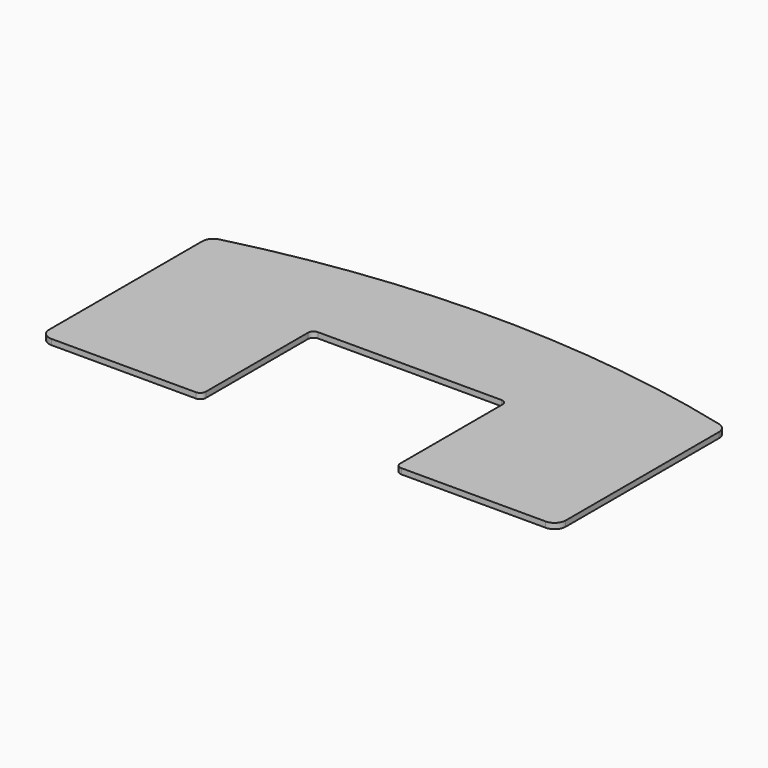
from build123d import *

# Parameters (mm, degrees)
F1_DEPTH = 25.4


with BuildPart() as f1:
    # F0 (on Top) → F1 (new body)
    with BuildSketch(Plane.XY):
        with BuildLine():
            Line((469.9, -482.6), (1130.3, -482.6))
            ThreePointArc((1130.3, -482.6), (1166.221024, -467.721024), (1181.1, -431.8))
            Line((1181.1, -431.8), (1181.1, 443.23931))
            ThreePointArc((1181.1, 443.23931), (1170.390212, 474.438908), (1142.776578, 492.483345))
            ThreePointArc((1142.776578, 492.483345), (0, 635), (-1142.776578, 492.483345))
            ThreePointArc((-1142.776578, 492.483345), (-1170.390212, 474.438908), (-1181.1, 443.23931))
            Line((-1181.1, 443.23931), (-1181.1, -431.8))
            ThreePointArc((-1181.1, -431.8), (-1166.221024, -467.721024), (-1130.3, -482.6))
            Line((-1130.3, -482.6), (-469.9, -482.6))
            ThreePointArc((-469.9, -482.6), (-451.939488, -475.160512), (-444.5, -457.2))
            Line((-444.5, -457.2), (-444.5, 127))
            ThreePointArc((-444.5, 127), (-437.060512, 144.960512), (-419.1, 152.4))
            Line((-419.1, 152.4), (419.1, 152.4))
            ThreePointArc((419.1, 152.4), (437.060512, 144.960512), (444.5, 127))
            Line((444.5, 127), (444.5, -457.2))
            ThreePointArc((444.5, -457.2), (451.939488, -475.160512), (469.9, -482.6))
        make_face()
    extrude(amount=F1_DEPTH)


solid = f1.part
